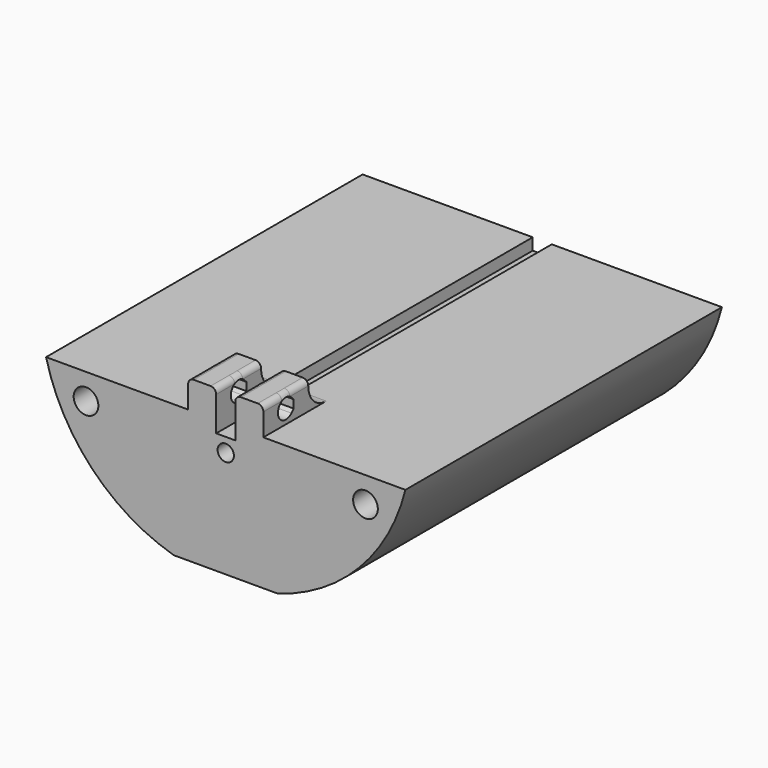
from build123d import *

# Parameters (mm, degrees)
SKETCH_R        = 2.2
SKETCH_R_2      = 1.45
PAD_DEPTH       = 33
SKETCH037_R     = 2.2
SKETCH037_R_2   = 1.45
PAD016_DEPTH    = 4.5
SKETCH039_W     = 13.4
SKETCH039_H     = 10
PAD017_DEPTH    = 5
POCKET018_DEPTH = 13.4
SKETCH041_W     = 3.4
SKETCH041_H     = 70.5
POCKET019_DEPTH = 7.1
FILLET006_R     = 1
FILLET007_R     = 4


with BuildPart() as part:
    # Sketch → Pad (new body, symmetric)
    with BuildSketch(Plane.XZ):
        with BuildLine():
            Line((-9.25, -31.677082), (9.25, -31.677082))
            ThreePointArc((9.25, -31.677082), (23.787894, -22.872168), (32.015621, -8))
            Line((-32.015621, -8), (32.015621, -8))
            ThreePointArc((-32.015621, -8), (-23.787894, -22.872168), (-9.25, -31.677082))
        make_face()
        with Locations((24.9, -12.6)):
            Circle(SKETCH_R, mode=Mode.SUBTRACT)
        with Locations((-24.9, -12.6)):
            Circle(SKETCH_R, mode=Mode.SUBTRACT)
        with Locations((0, -12.6)):
            Circle(SKETCH_R_2, mode=Mode.SUBTRACT)
        with BuildLine():
            ThreePointArc((0, -18.243174), (-6.771568, -11.057878), (-16.248592, -13.827105))
            ThreePointArc((-16.248592, -13.827105), (-21.564175, -13.876493), (-18.494342, -18.216307))
            ThreePointArc((-18.494342, -18.216307), (-11.197344, -29.424262), (0, -22.11099))
            ThreePointArc((0, -22.11099), (18.7, -20.177082), (0, -18.243174))
        make_face(mode=Mode.SUBTRACT)
    extrude(amount=PAD_DEPTH, both=True)

    # Sketch037 (on Face13 of Pad) → Pad016 (join)
    with BuildSketch(Plane.XZ.offset(33)):
        with BuildLine():
            ThreePointArc((-32.015621, -8), (-23.787894, -22.872168), (-9.25, -31.677082))
            Line((9.25, -31.677082), (-9.25, -31.677082))
            ThreePointArc((9.25, -31.677082), (23.787894, -22.872168), (32.015621, -8))
            Line((-32.015621, -8), (32.015621, -8))
        make_face()
        with Locations((-24.9, -12.6)):
            Circle(SKETCH037_R, mode=Mode.SUBTRACT)
        with Locations((0, -12.6)):
            Circle(SKETCH037_R_2, mode=Mode.SUBTRACT)
        with Locations((24.9, -12.6)):
            Circle(SKETCH037_R, mode=Mode.SUBTRACT)
    extrude(amount=PAD016_DEPTH)

    # Sketch039 → Pad017 (join)
    with BuildSketch(Plane(origin=(0, 0, -8), x_dir=(-1, 0, 0), z_dir=(0, 0, 1))):
        with Locations((0, 32.5)):
            Rectangle(SKETCH039_W, SKETCH039_H)
    extrude(amount=PAD017_DEPTH)

    # Sketch040 (on Face8 of Pad017) → Pocket018 (cut)
    with BuildSketch(Plane(origin=(6.7, 0, 0), x_dir=(0, 0, 1), z_dir=(1, 0, 0))):
        with BuildLine():
            Line((-6.224874, 30.75), (-4.775126, 30.75))
            Line((-4.775126, 30.75), (-4.262563, 31.262563))
            ThreePointArc((-4.262563, 31.262563), (-5.5, 34.25), (-6.737437, 31.262563))
            Line((-6.224874, 30.75), (-6.737437, 31.262563))
        make_face()
    extrude(amount=-POCKET018_DEPTH, mode=Mode.SUBTRACT)

    # Sketch041 (on Face22 of Pocket018) → Pocket019 (cut)
    with BuildSketch(Plane(origin=(0, 0, -3), x_dir=(-1, 0, 0), z_dir=(0, 0, 1))):
        with Locations((0, 2.25)):
            Rectangle(SKETCH041_W, SKETCH041_H)
    extrude(amount=-POCKET019_DEPTH, mode=Mode.SUBTRACT)

    # Fillet006
    fillet006_edges = [part.edges().sort_by_distance(p)[0] for p in [
        (6.7, -32.5, -3),
        (1.7, -32.5, -3),
        (-1.7, -32.5, -3),
        (-6.7, -32.5, -3),
    ]]
    fillet(fillet006_edges, radius=FILLET006_R)

    # Fillet007
    fillet007_edges = [part.edges().sort_by_distance(p)[0] for p in [
        (-4.2, -27.5, -8),
        (4.2, -27.5, -8),
    ]]
    fillet(fillet007_edges, radius=FILLET007_R)


solid = part.part
